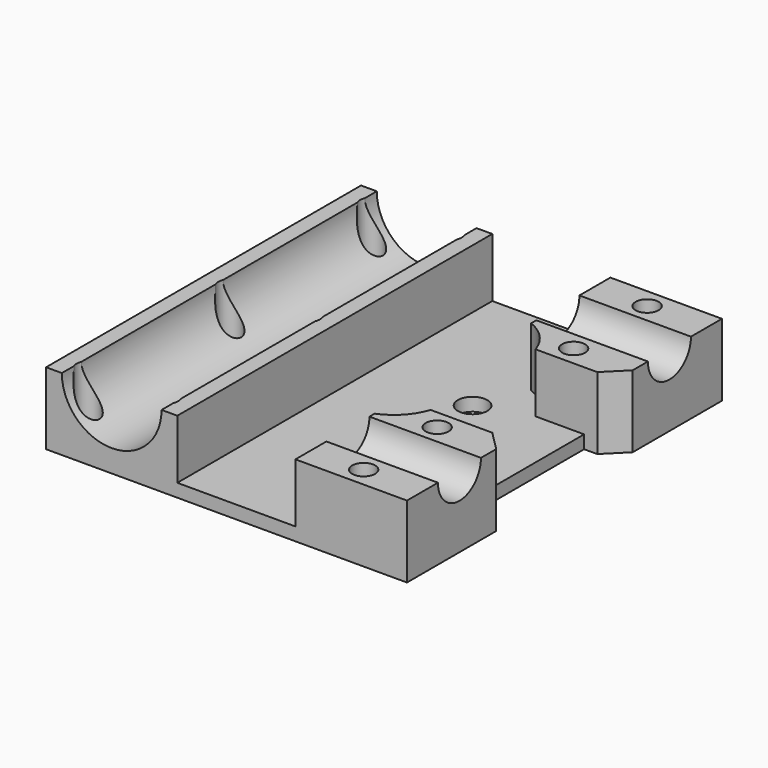
from build123d import *

# Parameters (mm, degrees)
SKETCH_W                       = 55
SKETCH_H                       = 60
PAD_DEPTH                      = 11
SKETCH001_R                    = 7.6
POCKET_DEPTH                   = 60.001
SKETCH002_R                    = 1.75
POCKET001_DEPTH                = 11.001
POCKET002_DEPTH                = 9
SKETCH004_R                    = 2.25
POCKET003_DEPTH                = 11.001
SKETCH008_R                    = 4.1
POCKET005_DEPTH                = 20
SKETCH010_W                    = 20
SKETCH010_H                    = 25
POCKET006_DEPTH                = 5
CHAMFER_SIZE                   = 3
CHAMFER001_SIZE                = 3
PART_MIRRORING_PLACEMENT_ANGLE = 180


with BuildPart() as chamfer002:
    # Sketch → Pad (new body)
    with BuildSketch(Plane.XY):
        with Locations((17.5, 0)):
            Rectangle(SKETCH_W, SKETCH_H)
    extrude(amount=PAD_DEPTH)

    # Sketch001 → Pocket (cut, through all)
    with BuildSketch(Plane.XZ.offset(30)):
        with Locations((0, 11)):
            Circle(SKETCH001_R)
    extrude(amount=-POCKET_DEPTH, mode=Mode.SUBTRACT)

    # Sketch002 → Pocket001 (cut, through all)
    with BuildSketch(Plane(origin=(0, 0, 0), x_dir=(1, 0, 0), z_dir=(0, 0, -1))):
        with Locations((-6, 27)):
            Circle(SKETCH002_R)
        with Locations((36, 27)):
            Circle(SKETCH002_R)
        with Locations((-6, -27)):
            Circle(SKETCH002_R)
        with Locations((36, -27)):
            Circle(SKETCH002_R)
        with Locations((6, 27)):
            Circle(SKETCH002_R)
        with Locations((6, -27)):
            Circle(SKETCH002_R)
        with Locations((6, 0)):
            Circle(SKETCH002_R)
        with Locations((-6, 0)):
            Circle(SKETCH002_R)
        with Locations((36, -13)):
            Circle(SKETCH002_R)
        with Locations((36, 13)):
            Circle(SKETCH002_R)
    extrude(amount=-POCKET001_DEPTH, mode=Mode.SUBTRACT)

    # Sketch003 → Pocket002 (cut)
    with BuildSketch(Plane.XY.offset(11)):
        with BuildLine():
            Line((10, 35), (10, -35))
            Line((10, -35), (28, -35))
            Line((28, -35), (28, -14.916198))
            ThreePointArc((28, -14.916198), (30.841983, -12.965458), (32.599342, -10))
            Line((32.599342, -10), (52.599342, -10))
            Line((52.599342, -10), (52.599342, 10))
            Line((52.599342, 10), (32.599342, 10))
            ThreePointArc((32.599342, 10), (30.841983, 12.965458), (28, 14.916198))
            Line((28, 14.916198), (28, 35))
            Line((28, 35), (10, 35))
        make_face()
    extrude(amount=-POCKET002_DEPTH, mode=Mode.SUBTRACT)

    # Sketch004 → Pocket003 (cut, through all)
    with BuildSketch(Plane(origin=(0, 0, 0), x_dir=(1, 0, 0), z_dir=(0, 0, -1))):
        with Locations((25, 7.5)):
            Circle(SKETCH004_R)
        with Locations((25, -7.5)):
            Circle(SKETCH004_R)
    extrude(amount=-POCKET003_DEPTH, mode=Mode.SUBTRACT)

    # Sketch008 → Pocket005 (cut)
    with BuildSketch(Plane.YZ.offset(45)):
        with Locations((-20, 11)):
            Circle(SKETCH008_R)
        with Locations((20, 11)):
            Circle(SKETCH008_R)
    extrude(amount=-POCKET005_DEPTH, mode=Mode.SUBTRACT)

    # Sketch010 → Pocket006 (cut)
    with BuildSketch(Plane.YZ.offset(45)):
        with Locations((0, 3.5)):
            Rectangle(SKETCH010_W, SKETCH010_H)
    extrude(amount=-POCKET006_DEPTH, mode=Mode.SUBTRACT)

    # Chamfer
    chamfer_edges = [chamfer002.edges().sort_by_distance(p)[0] for p in [
        (45, -10, 6.5),
    ]]
    chamfer(chamfer_edges, length=CHAMFER_SIZE)

    # Chamfer001
    chamfer001_edges = [chamfer002.edges().sort_by_distance(p)[0] for p in [
        (45, 10, 6.5),
    ]]
    chamfer(chamfer001_edges, length=CHAMFER001_SIZE)


with BuildPart() as xy_block_top:
    # Part__Mirroring: instance of Chamfer002
    add(chamfer002.part.mirror(Plane(origin=(0, 0, 0), x_dir=(0, 1, 0), z_dir=(0, 0, 1))))


with BuildPart() as xy_block_top_1:
    # Part__Mirroring placement: moved
    add(xy_block_top.part.rotate(Axis((0, 0, 0), (1, 0, 0)), PART_MIRRORING_PLACEMENT_ANGLE))


solid = xy_block_top_1.part
